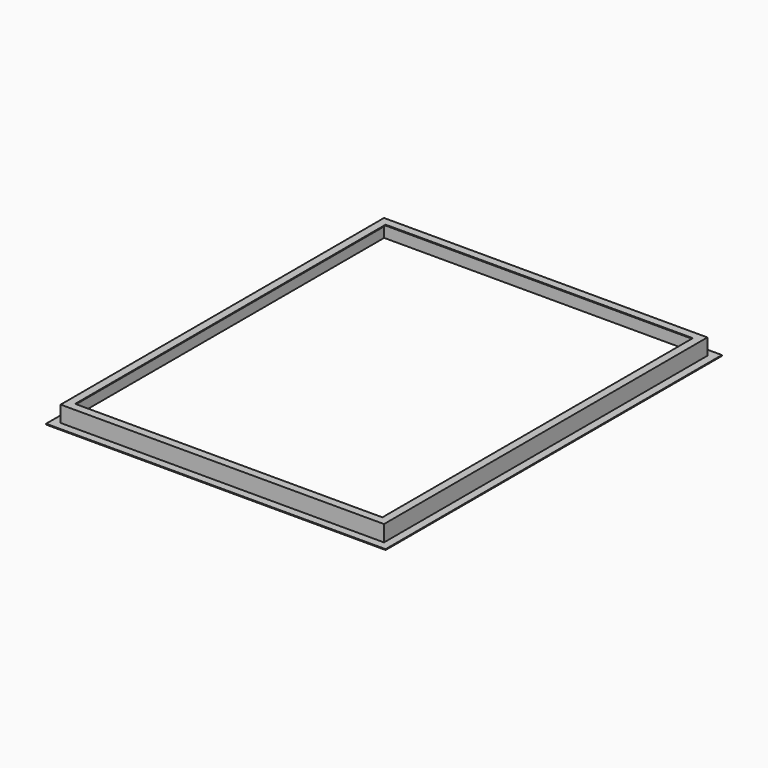
from build123d import *


with BuildPart() as f2:
    # F2: sweep along a path in F1
    with BuildLine(Plane.XY) as f2_path:
        Line((0, -10), (200, -10))
        Line((200, -10), (200, 490))
        Line((200, 490), (-200, 490))
        Line((-200, 490), (-200, -10))
        Line((-200, -10), (0, -10))
    # F0 (on Right) → F2 (sweep)
    with BuildSketch(Plane.YZ):
        Polygon((0, -1), (0, 0), (-10, 0), (-10, -20), (-20, -20), (-20, -21), (-9, -21), (-9, -1), align=None)
    sweep(path=f2_path.line, transition=Transition.RIGHT)


solid = f2.part
